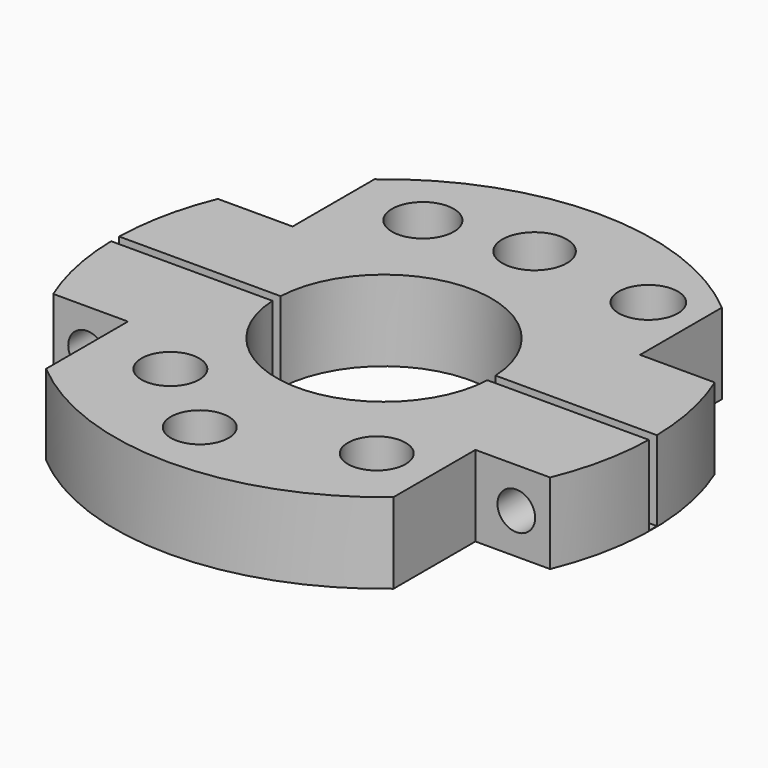
from build123d import *

# Parameters (mm, degrees)
SKETCH_R        = 20
SKETCH_R_2      = 8
PAD_DEPTH       = 6
SKETCH001_R     = 2.4
SKETCH001_R_2   = 2.3
SKETCH001_R_3   = 2.2
SKETCH001_R_4   = 2.15
POCKET_DEPTH    = 4
SKETCH003_W     = 43.022533
SKETCH003_H     = 0.75
POCKET001_DEPTH = 5.95
SKETCH007_W     = 7.6375744751
SKETCH007_H     = 10.86069433
SKETCH007_W_2   = 8.2446434751
SKETCH007_H_2   = 12.05515533
SKETCH007_W_3   = 8.5299164751
SKETCH007_H_3   = 10.94123533
SKETCH007_W_4   = 11.8328734751
SKETCH007_H_4   = 10.66832833
POCKET002_DEPTH = 6.001
SKETCH008_R     = 1.4
POCKET003_DEPTH = 27.65392667
SKETCH009_R     = 1.75
POCKET004_DEPTH = 8


with BuildPart() as part:
    # Sketch → Pad (new body)
    with BuildSketch(Plane.XY):
        Circle(SKETCH_R)
        Circle(SKETCH_R_2, mode=Mode.SUBTRACT)
    extrude(amount=PAD_DEPTH)

    # Sketch001 (on Face4 of Pad) → Pocket (cut)
    with BuildSketch(Plane.XY.offset(6)):
        with Locations((0, 14)):
            Circle(SKETCH001_R)
        with Locations((-7.5, 12.9903810568)):
            Circle(SKETCH001_R_2)
        with Locations((9.1772229816, 13.1064327086)):
            Circle(SKETCH001_R_3)
        with Locations((8.7263178357, -11.5802148957)):
            Circle(SKETCH001_R_4)
        with Locations((-1.3509140126, -15.4410178204)):
            Circle(SKETCH001_R_4)
        with Locations((-7.2695077451, -10.7774884432)):
            Circle(SKETCH001_R_4)
    extrude(amount=-POCKET_DEPTH, mode=Mode.SUBTRACT)

    # Sketch003 (on Face3 of Pocket) → Pocket001 (cut)
    with BuildSketch(Plane.XY.offset(6)):
        with Locations((-0.7364995, 0)):
            Rectangle(SKETCH003_W, SKETCH003_H)
    extrude(amount=-POCKET001_DEPTH, mode=Mode.SUBTRACT)

    # Sketch007 (on Face9 of Pocket001) → Pocket002 (cut, through all)
    with BuildSketch(Plane.XY.offset(6)):
        with Locations((-16.7398847624, -13.083273835)):
            Rectangle(SKETCH007_W, SKETCH007_H)
        with Locations((-17.0434192624, 13.680504335)):
            Rectangle(SKETCH007_W_2, SKETCH007_H_2)
        with Locations((17.1860557624, 13.123544335)):
            Rectangle(SKETCH007_W_3, SKETCH007_H_3)
        with Locations((18.8375342624, -12.987090835)):
            Rectangle(SKETCH007_W_4, SKETCH007_H_4)
    extrude(amount=-POCKET002_DEPTH, mode=Mode.SUBTRACT)

    # Sketch008 → Pocket003 (cut, through all)
    with BuildSketch(Plane(origin=(0, 7.65292667, 0), x_dir=(-1, 0, 0), z_dir=(0, 1, 0))):
        with Locations((-15.963433, 3)):
            Circle(SKETCH008_R)
        with Locations((15.963433, 3)):
            Circle(SKETCH008_R)
    extrude(amount=-POCKET003_DEPTH, mode=Mode.SUBTRACT)

    # Sketch009 → Pocket004 (cut)
    with BuildSketch(Plane(origin=(0, 7.65292667, 0), x_dir=(-1, 0, 0), z_dir=(0, 1, 0))):
        with Locations((-15.997951, 3)):
            Circle(SKETCH009_R)
        with Locations((15.997951, 3)):
            Circle(SKETCH009_R)
    extrude(amount=-POCKET004_DEPTH, mode=Mode.SUBTRACT)


solid = part.part
